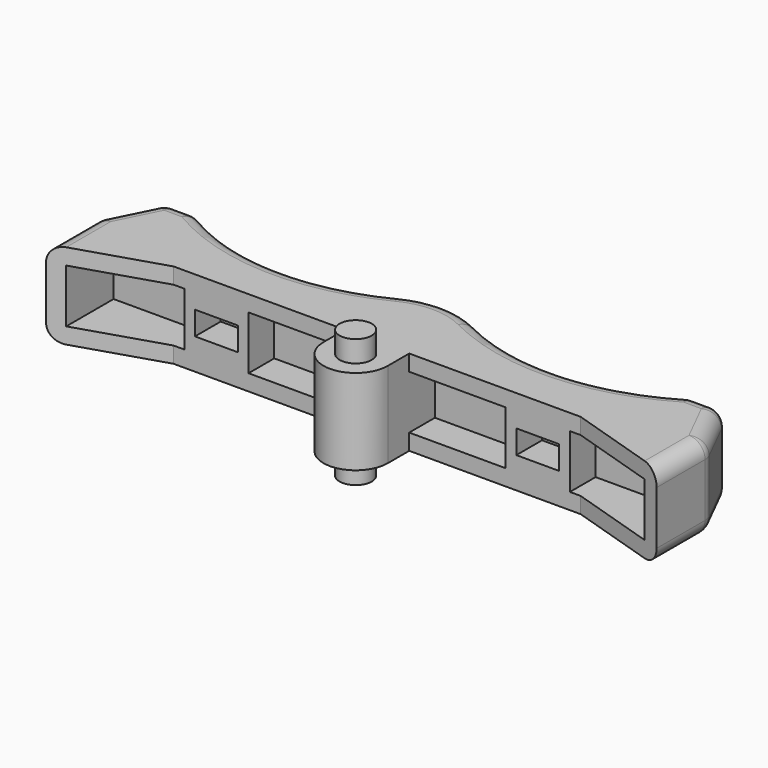
from build123d import *

# Parameters (mm, degrees)
PAD060_DEPTH            = 4
CYLINDER_R              = 1.5
CYLINDER_DEPTH          = 6
SKETCH098_W             = 9
SKETCH098_H             = 5
SKETCH098_W_2           = 4
SKETCH098_H_2           = 2.2
POCKET027_DEPTH         = 6
FILLET003_R             = 1.5
BODY091_PLACEMENT_ANGLE = 90


with BuildPart() as part:
    # Sketch097 → Pad060 (new body, symmetric)
    with BuildSketch(Plane.XZ):
        with BuildLine():
            ThreePointArc((3.619641, 7.134297), (0, 8), (-3.619641, 7.134297))
            ThreePointArc((-23, 8), (-13.423615, 5.019648), (-3.619641, 7.134297))
            Line((-23, 8), (-26, 8))
            Line((-28.5, 3), (-26, 8))
            Line((-28.5, 3), (-28.5, -3))
            Line((-19, 0), (-28.5, -3))
            Line((-3, 0), (-19, 0))
            Line((-3, 0), (-3, -2.5))
            ThreePointArc((-3, -2.5), (0, -5.5), (3, -2.5))
            Line((3, 0), (3, -2.5))
            Line((3, 0), (19, 0))
            Line((19, 0), (28.5, -3))
            Line((28.5, 3), (28.5, -3))
            Line((26, 8), (28.5, 3))
            Line((23, 8), (26, 8))
            ThreePointArc((3.619641, 7.134297), (13.423615, 5.019648), (23, 8))
        make_face()
    extrude(amount=PAD060_DEPTH, both=True)

    # Cylinder → Cylinder (join)
    with BuildSketch(Plane(origin=(0, 0, -2.5), x_dir=(1, 0, 0), z_dir=(0, -1, 0))):
        Circle(CYLINDER_R)
    cylinder = extrude(amount=CYLINDER_DEPTH)

    # Mirrored015: Cylinder across XZ
    add(cylinder.mirror(Plane.XZ))

    # Sketch098 → Pocket027 (cut)
    with BuildSketch(Plane.XY.offset(-3)):
        with Locations((-22.5, 0)):
            Rectangle(SKETCH098_W, SKETCH098_H)
        with Locations((-7.5, 0)):
            Rectangle(SKETCH098_W, SKETCH098_H)
        with Locations((-15, 0)):
            Rectangle(SKETCH098_W_2, SKETCH098_H_2)
    pocket027 = extrude(amount=POCKET027_DEPTH, mode=Mode.SUBTRACT)

    # Mirrored021: Pocket027 across YZ
    add(pocket027.mirror(Plane.YZ), mode=Mode.SUBTRACT)

    # Fillet003
    fillet003_edges = [part.edges().sort_by_distance(p)[0] for p in [
        (0, 4, 8),
        (0, -4, 8),
        (-23, 0, 8),
        (-26, 0, 8),
        (-28.5, 0, 3),
        (-28.5, 4, 0),
        (-27.25, 4, 5.5),
        (-24.5, 4, 8),
        (-13.423615, 4, 5.019648),
        (-13.423615, -4, 5.019648),
        (-24.5, -4, 8),
        (-27.25, -4, 5.5),
        (-28.5, -4, 0),
        (13.423615, -4, 5.019648),
        (13.423615, 4, 5.019648),
        (23, 0, 8),
        (26, 0, 8),
        (24.5, -4, 8),
        (24.5, 4, 8),
        (27.25, -4, 5.5),
        (28.5, -4, 0),
        (27.25, 4, 5.5),
        (28.5, 4, 0),
        (28.5, 0, 3),
    ]]
    fillet(fillet003_edges, radius=FILLET003_R)


with BuildPart() as part_1:
    # Body091 placement: moved
    add(part.part.moved(Location((40, 17, 54))).rotate(Axis((40, 17, 54), (-1, 0, 0)), BODY091_PLACEMENT_ANGLE))


solid = part_1.part
